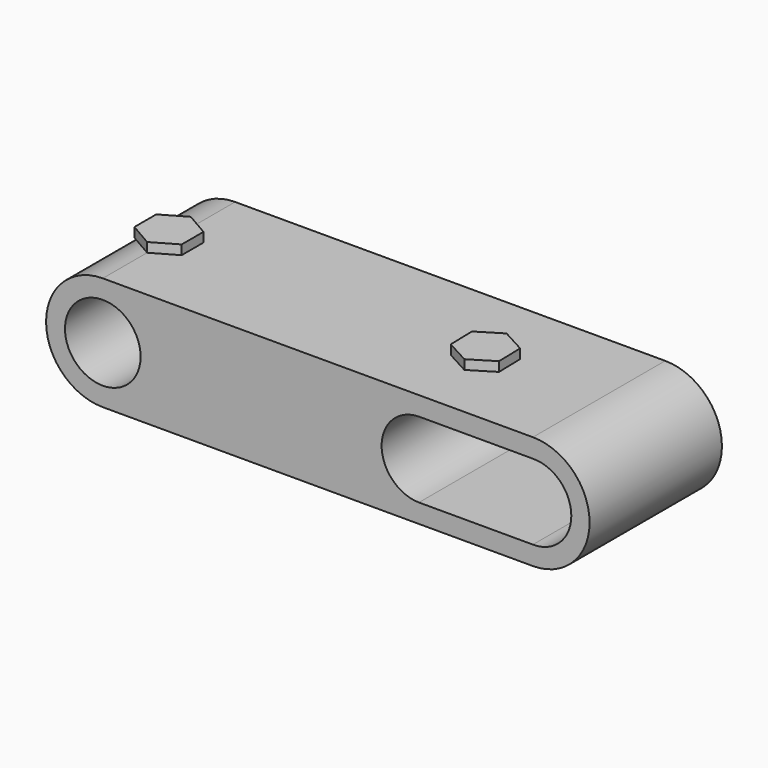
from build123d import *

# Parameters (mm, degrees)
F0_R     = 8
F1_DEPTH = 35
F3_DEPTH = 2


with BuildPart() as f1:
    # F0 (on Front) → F1 (new body)
    with BuildSketch(Plane.XZ):
        with BuildLine():
            Line((-62.010019, -11.999998), (28.996555, -11.999998))
            ThreePointArc((28.996555, -11.999998), (40.996553, 1e-06), (28.996555, 12))
            Line((28.996555, 12), (-62.003448, 12))
            ThreePointArc((-62.003448, 12), (-74.003447, 0.003286), (-62.010019, -11.999998))
        make_face()
        with Locations((-62.003448, 0)):
            Circle(F0_R, mode=Mode.SUBTRACT)
        with BuildLine():
            ThreePointArc((4.880946, -8), (-3.004283, 0), (4.880946, 8))
            Line((4.880946, 8), (28.996555, 8))
            ThreePointArc((28.996555, 8), (37.131105, 0), (28.996555, -8))
            Line((28.996555, -8), (4.880946, -8))
        make_face(mode=Mode.SUBTRACT)
    extrude(amount=F1_DEPTH)

    # F2 (on face) → F3 (join)
    with BuildSketch(Plane.XY.offset(12)):
        Polygon((9.892042, -14.4872), (4.819268, -11.726497), (-0.107958, -14.739297), (0.03759, -20.5128), (5.110364, -23.273503), (10.03759, -20.260703), align=None)
        Polygon((-57.003448, -20.386751), (-57.003448, -14.613249), (-62.003448, -11.726497), (-67.003448, -14.613249), (-67.003448, -20.386751), (-62.003448, -23.273503), align=None)
    extrude(amount=F3_DEPTH)


solid = f1.part
